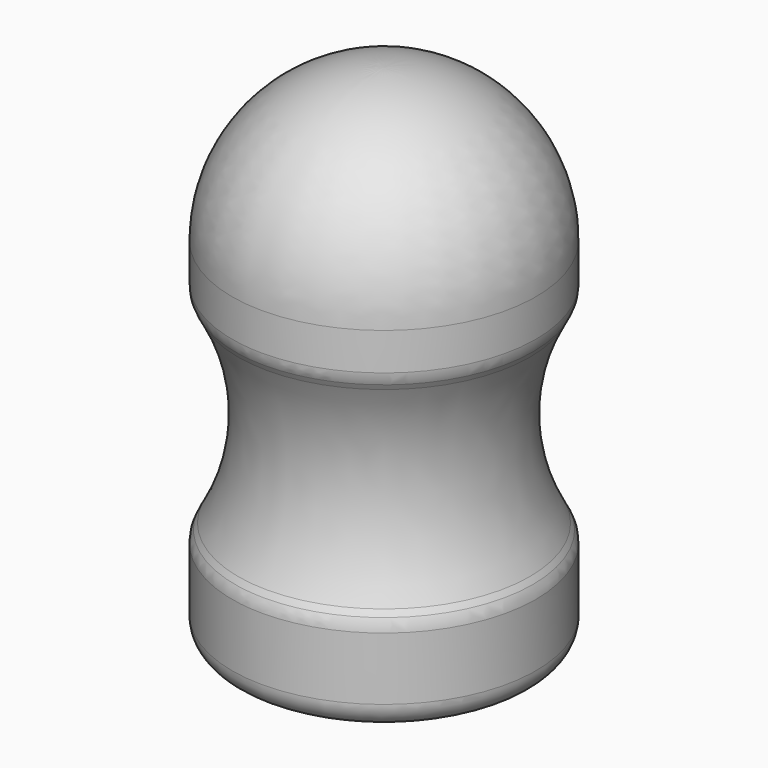
from build123d import *

# Parameters (mm, degrees)
F2_R = 0.635


with BuildPart() as f1:
    # F0 (on Right) → F1 (revolve)
    with BuildSketch(Plane.YZ):
        with BuildLine():
            Line((-3.81, 0), (0, 0))
            Line((0, 0), (0, 12.7))
            ThreePointArc((0, 12.7), (-2.694077, 11.584077), (-3.81, 8.89))
            Line((-3.81, 8.89), (-3.81, 7.791616))
            Line((-3.81, 7.791616), (-3.653507, 7.503002))
            ThreePointArc((-3.653507, 7.503002), (-3.039272, 5.081568), (-3.653507, 2.660135))
            Line((-3.653507, 2.660135), (-3.81, 2.37152))
            Line((-3.81, 2.37152), (-3.81, 0))
        make_face()
    revolve(axis=Axis((0, 0, 6.35), (0, 0, 1)))

    # F2
    f2_edges = [f1.edges().sort_by_distance(p)[0] for p in [
        (0, 3.81, 0),
        (0, 3.81, 2.37152),
        (0, 3.81, 7.791616),
    ]]
    fillet(f2_edges, radius=F2_R)


solid = f1.part
